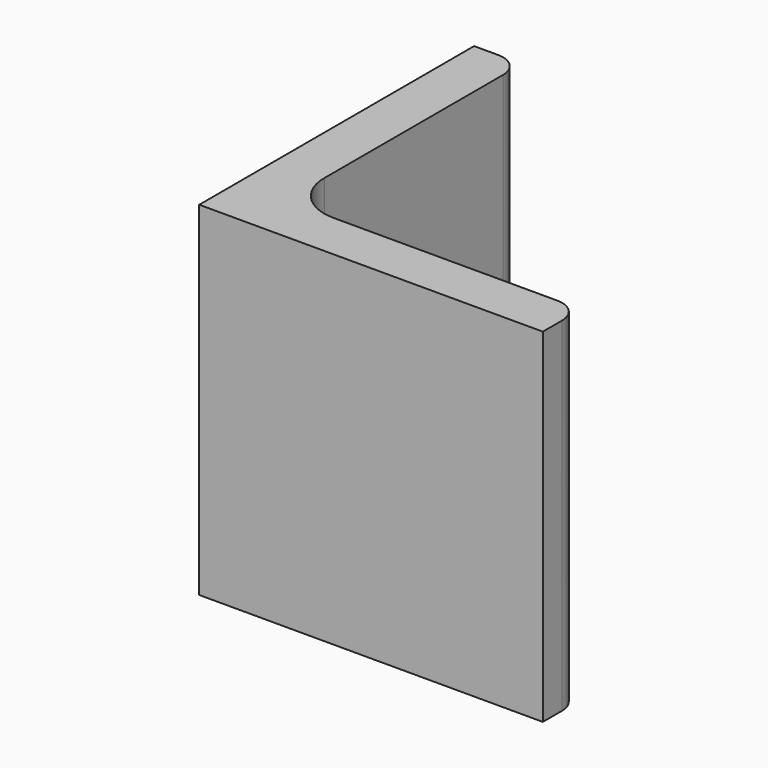
from build123d import *

# Parameters (mm, degrees)
EXTRUDE_DEPTH = 50


with BuildPart() as part:
    # Sketch → Extrude (new body)
    with BuildSketch(Plane.XY):
        with BuildLine():
            Line((0, 0), (50, 0))
            Line((50, 0), (50, 3.5))
            ThreePointArc((50, 3.5), (48.974874, 5.974874), (46.5, 7))
            Line((46.5, 7), (14, 7))
            ThreePointArc((7, 14), (9.050253, 9.050253), (14, 7))
            Line((7, 46.5), (7, 14))
            ThreePointArc((7, 46.5), (5.974874, 48.974874), (3.5, 50))
            Line((0, 50), (3.5, 50))
            Line((0, 0), (0, 50))
        make_face()
    extrude(amount=EXTRUDE_DEPTH)


solid = part.part
